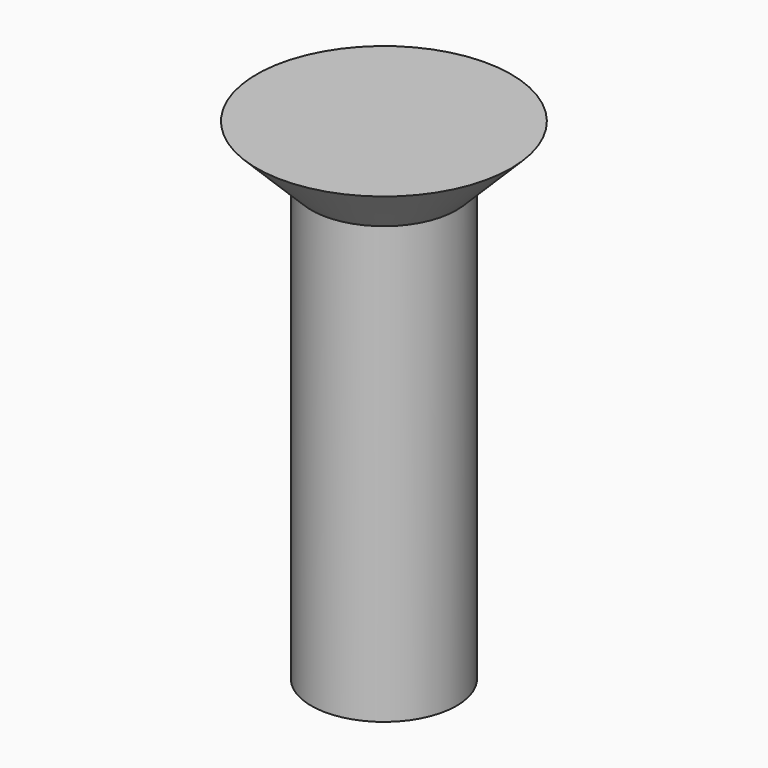
from build123d import *


with BuildPart() as part:
    # Sketch → Revolution (revolve)
    with BuildSketch(Plane.XZ):
        Polygon((0, 0), (2, 0), (2, 12), (3.5, 13.5), (0, 13.5), align=None)
    revolve(axis=Axis((0, 0, 0), (0, 0, 1)))


solid = part.part
